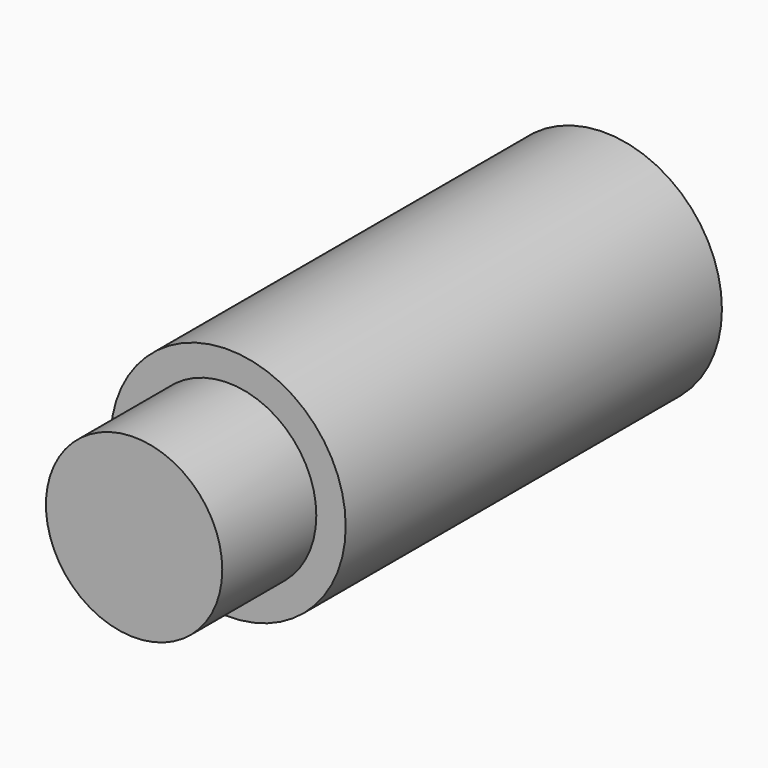
from build123d import *

# Parameters (mm, degrees)
F0_R     = 10
F1_DEPTH = 50
F2_R     = 10
F2_R_2   = 7.5
F3_DEPTH = 10


with BuildPart() as f1:
    # F0 (on Front) → F1 (new body)
    with BuildSketch(Plane.XZ):
        Circle(F0_R)
    extrude(amount=F1_DEPTH)

    # F2 (on face) → F3 (cut)
    with BuildSketch(Plane.XZ.offset(50)):
        Circle(F2_R)
        Circle(F2_R_2, mode=Mode.SUBTRACT)
    extrude(amount=-F3_DEPTH, mode=Mode.SUBTRACT)


solid = f1.part
